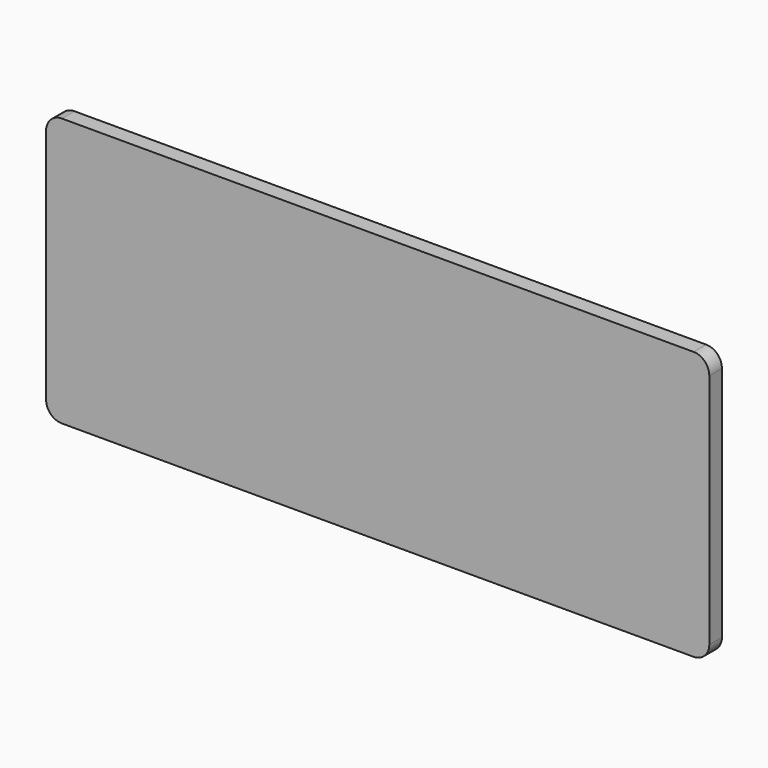
from build123d import *

# Parameters (mm, degrees)
F0_W     = 39.7
F0_H     = 14.7
F1_DEPTH = 1
F2_DEPTH = 1


with BuildPart() as f1:
    # F0 (on Front) → F1 (new body)
    with BuildSketch(Plane.XZ):
        with BuildLine():
            Line((-19.5884138916, -8.2256097558), (20.4115861084, -8.2256097558))
            ThreePointArc((20.4115861084, -8.2256097558), (21.1186928896, -7.932716537), (21.4115861084, -7.2256097558))
            Line((21.4115861084, -7.2256097558), (21.4115861084, 7.7743902442))
            ThreePointArc((21.4115861084, 7.7743902442), (21.1186928896, 8.4814970253), (20.4115861084, 8.7743902442))
            Line((20.4115861084, 8.7743902442), (-19.5884138916, 8.7743902442))
            ThreePointArc((-19.5884138916, 8.7743902442), (-20.2955206728, 8.4814970253), (-20.5884138916, 7.7743902442))
            Line((-20.5884138916, 7.7743902442), (-20.5884138916, -7.2256097558))
            ThreePointArc((-20.5884138916, -7.2256097558), (-20.2955206728, -7.932716537), (-19.5884138916, -8.2256097558))
        make_face()
        with Locations((0.4115861084, 0.2743902442)):
            Rectangle(F0_W, F0_H, mode=Mode.SUBTRACT)
        with Locations((0.4115861084, 0.2743902442)):
            Rectangle(F0_W, F0_H)
    extrude(amount=F1_DEPTH)

    # F0 (on Front) → F2 (join)
    with BuildSketch(Plane.XZ):
        with Locations((0.4115861084, 0.2743902442)):
            Rectangle(F0_W, F0_H)
    extrude(amount=-F2_DEPTH)


solid = f1.part
